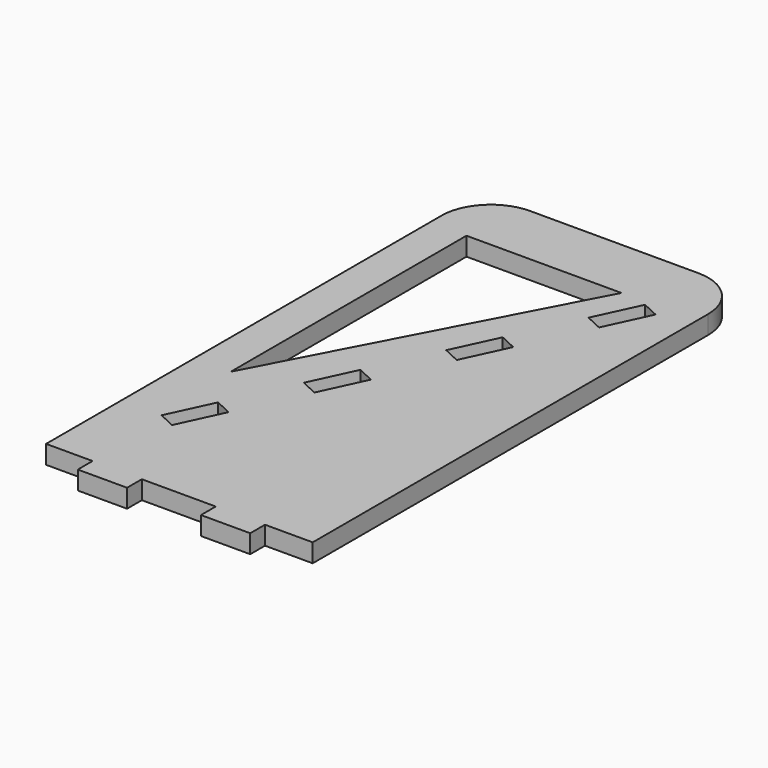
from build123d import *

# Parameters (mm, degrees)
F0_W     = 274.9042
F0_H     = 560.5272
F1_DEPTH = 19.05
F3_DEPTH = 25.4
F4_W     = 50.8
F4_H     = 19.05
F5_DEPTH = 19.05
F7_DEPTH = 19.05
F8_R     = 50.8


with BuildPart() as f1:
    # F0 (on Top) → F1 (new body)
    with BuildSketch(Plane.XY):
        with Locations((-33.675123, 17.433073)):
            Rectangle(F0_W, F0_H)
    extrude(amount=F1_DEPTH)

    # F2 (on face) → F3 (cut)
    with BuildSketch(Plane.XY.offset(19.05)):
        Polygon((49.734686, 173.754715), (71.204288, 219.794873), (53.93326, 227.848758), (32.463658, 181.808599), align=None)
        Polygon((-21.578634, 65.918441), (-4.307605, 57.864557), (17.161997, 103.904715), (-0.109031, 111.958599), align=None)
        Polygon((-75.620925, -49.971717), (-58.349897, -58.025601), (-36.880294, -11.985443), (-54.151322, -3.931559), align=None)
        Polygon((-129.663216, -165.861875), (-112.392188, -173.915759), (-90.922585, -127.875601), (-108.193613, -119.821717), align=None)
    extrude(amount=-F3_DEPTH, mode=Mode.SUBTRACT)

    # F4 (on face) → F5 (join)
    with BuildSketch(Plane.XZ.offset(262.830527)):
        with Locations((-97.797423, 9.525)):
            Rectangle(F4_W, F4_H)
        with Locations((29.202577, 9.525)):
            Rectangle(F4_W, F4_H)
    extrude(amount=F5_DEPTH)

    # F6 (on face) → F7 (cut)
    with BuildSketch(Plane.XY.offset(19.05)):
        Polygon((-133.570358, -71.706755), (26.208879, 232.032016), (-133.570358, 232.032016), align=None)
    extrude(amount=-F7_DEPTH, mode=Mode.SUBTRACT)

    # F8
    f8_edges = [f1.edges().sort_by_distance(p)[0] for p in [
        (-171.127223, 297.696673, 9.525),
        (103.776977, 297.696673, 9.525),
    ]]
    fillet(f8_edges, radius=F8_R)


solid = f1.part
